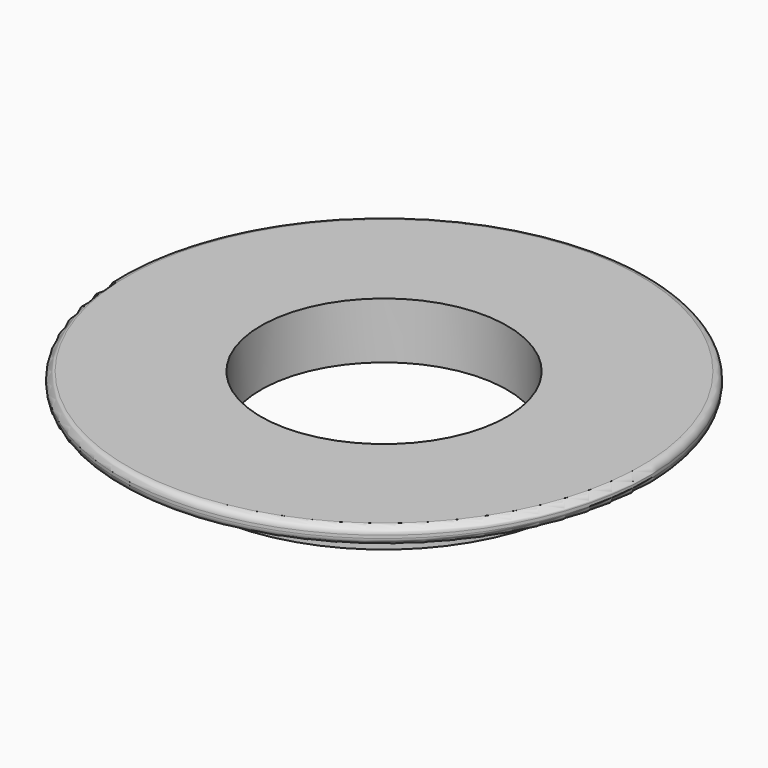
from build123d import *


with BuildPart() as f1:
    # F0 (on Right) → F1 (revolve)
    with BuildSketch(Plane.YZ):
        with BuildLine():
            Line((-27.5, 4), (-27.5, 0))
            Line((-27.5, 0), (-17.5, 0))
            Line((-17.5, 0), (-17.5, 8))
            Line((-17.5, 8), (-36.5, 8))
            ThreePointArc((-36.5, 8), (-37.207107, 7.707107), (-37.5, 7))
            Line((-37.5, 7), (-37.5, 6.590197))
            ThreePointArc((-37.5, 6.590197), (-37.265631, 5.946916), (-36.67238, 5.605167))
            Line((-36.67238, 5.605167), (-27.5, 4))
        make_face()
    revolve(axis=Axis((0, 0, 4), (0, 0, 1)))


solid = f1.part
